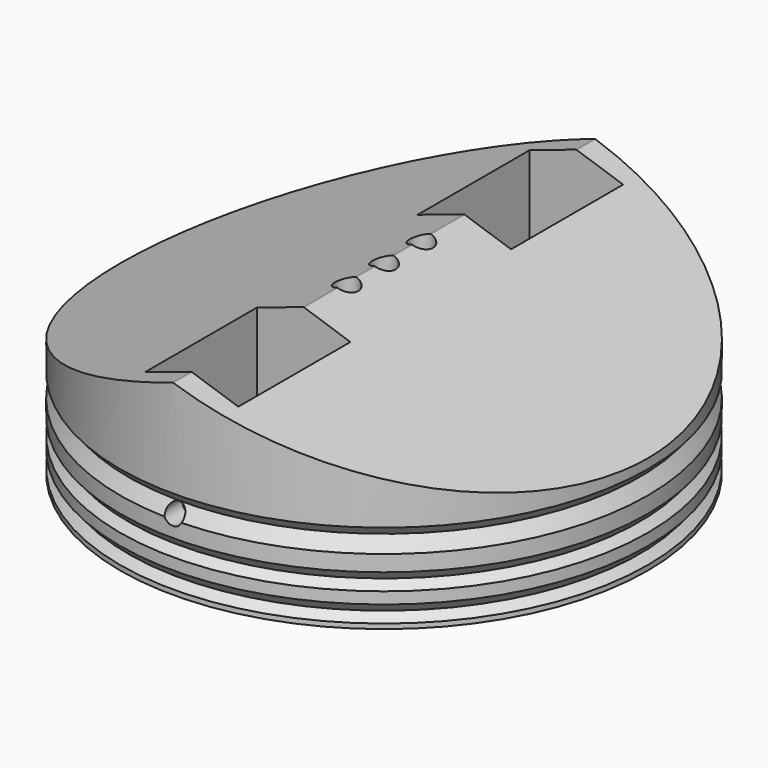
from build123d import *

# Parameters (mm, degrees)
F0_R          = 56.5
F1_DEPTH      = 40
F3_DEPTH      = 56.501
F3_DEPTH_BACK = 56.501
F4_R          = 2.5
F4_W          = 20
F4_H          = 30
F5_DEPTH      = 40.001
F6_R          = 2
F7_DEPTH      = 78.001
F7_DEPTH_BACK = 35.001


with BuildPart() as f1:
    # F0 (on Top) → F1 (new body)
    with BuildSketch(Plane.XY):
        Circle(F0_R)
    extrude(amount=F1_DEPTH)

    # F2 (on Front) → F3 (cut, two sides)
    with BuildSketch(Plane.XZ) as f3_sk:
        Polygon((-60, 20), (0, 40.03386572), (60, 20), (60, 50.03386572), (0, 50.03386572), (-60, 50.03386572), align=None)
    extrude(amount=-F3_DEPTH, mode=Mode.SUBTRACT)
    extrude(f3_sk.sketch, amount=F3_DEPTH_BACK, mode=Mode.SUBTRACT)

    # F4 (on face) → F5 (cut, through all)
    with BuildSketch(Plane(origin=(0, 0, 0), x_dir=(1, 0, 0), z_dir=(0, 0, -1))):
        Circle(F4_R)
        with Locations((0, -10)):
            Circle(F4_R)
        with Locations((0, 10)):
            Circle(F4_R)
        with Locations((0, 36.5)):
            Rectangle(F4_W, F4_H)
        with Locations((0, -36.5)):
            Rectangle(F4_W, F4_H)
    extrude(amount=-F5_DEPTH, mode=Mode.SUBTRACT)

    # F6 (on face) → F7 (cut, two sides)
    with BuildSketch(Plane(origin=(0, 21.5, 0), x_dir=(-1, 0, 0), z_dir=(0, 1, 0))) as f7_sk:
        with Locations((0, 15)):
            Circle(F6_R)
    extrude(amount=-F7_DEPTH, mode=Mode.SUBTRACT)
    extrude(f7_sk.sketch, amount=F7_DEPTH_BACK, mode=Mode.SUBTRACT)

    # F8 (on Front) → F9 (revolve, cut)
    with BuildSketch(Plane.XZ):
        Polygon((-54.7298887074, 17.0381178779), (-57.7298887074, 20.5675298348), (-93.4339091182, 20.5675298348), (-93.4339091182, 0), (-57.7298887074, 0), (-54.7298887074, 2.5499998611), (-57.7298887074, 6.0794118181), (-54.7298887074, 8.6294116792), (-57.7298887074, 12.1588236361), align=None)
    revolve(axis=Axis((0, 0, 23.785918951), (0, 0, -1)), mode=Mode.SUBTRACT)


solid = f1.part
